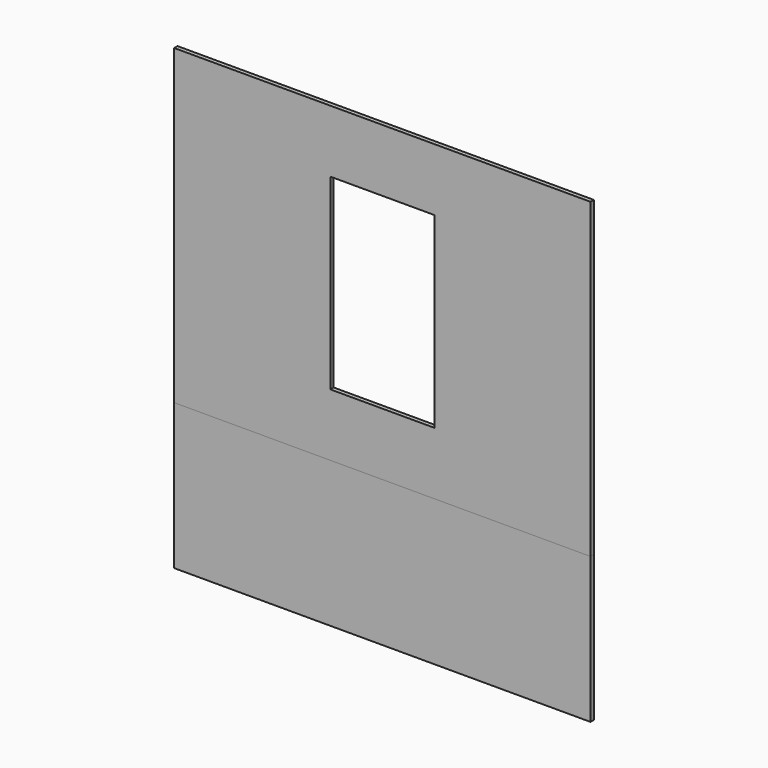
from build123d import *

# Parameters (mm, degrees)
F0_W     = 200
F0_H     = 150
F1_DEPTH = 2
F2_W     = 50
F2_H     = 90
F3_DEPTH = 2
F4_W     = 200
F4_H     = 70
F5_DEPTH = 2


with BuildPart() as f1:
    # F0 (on Front) → F1 (new body)
    with BuildSketch(Plane.XZ):
        Rectangle(F0_W, F0_H)
    extrude(amount=F1_DEPTH)

    # F2 (on face) → F3 (cut)
    with BuildSketch(Plane.XZ.offset(2)):
        Rectangle(F2_W, F2_H)
    extrude(amount=-F3_DEPTH, mode=Mode.SUBTRACT)


with BuildPart() as f5:
    # F4 (on face) → F5 (new body)
    with BuildSketch(Plane.XZ.offset(2)):
        with Locations((0, -110)):
            Rectangle(F4_W, F4_H)
    extrude(amount=-F5_DEPTH)


solid = Compound([f1.part, f5.part])
